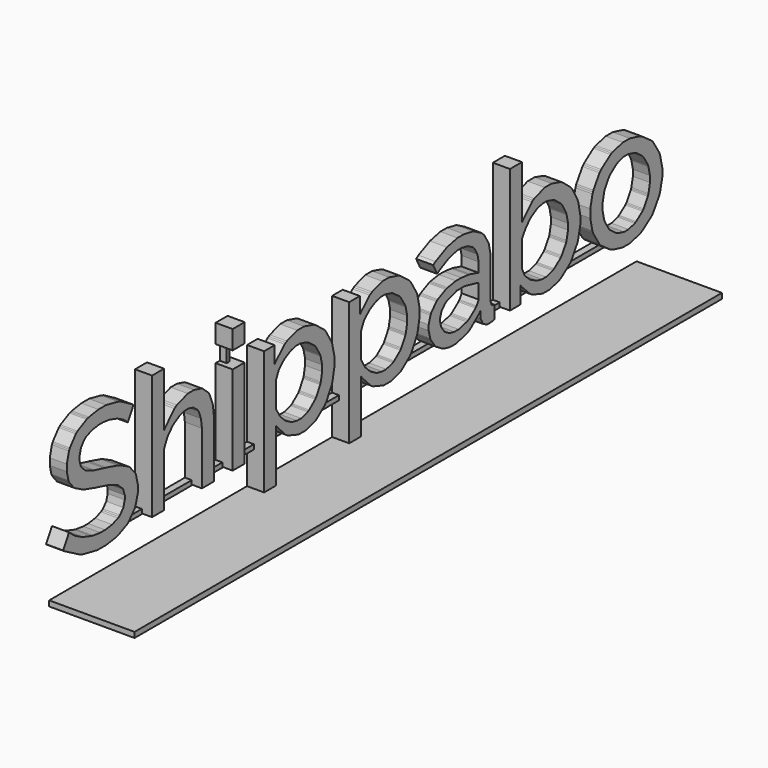
from build123d import *

# Parameters (mm, degrees)
F0_W     = 1.117549
F0_H     = 6.629756
F0_H_2   = 1.397356
F1_DEPTH = 1.27
F2_W     = 46.488545
F2_H     = 0.346791
F2_W_2   = 0.287077
F2_H_2   = 1.555349
F3_DEPTH = 0.508
F4_W     = 54.61267
F4_H     = 0.402273
F5_DEPTH = 6.35


with BuildPart() as f1:
    # F0 (on Right) → F1 (new body)
    with BuildSketch(Plane.YZ):
        Polygon((-21.870822, 3.87162), (-21.844635, 3.841293), (-21.309965, 4.768698), (-21.406409, 4.84726), (-22.496424, 5.472887), (-22.619106, 5.518353), (-22.741763, 5.565191), (-23.857941, 5.796737), (-24.269979, 5.796737), (-24.569014, 5.796737), (-25.466116, 5.654777), (-25.565329, 5.625846), (-25.665938, 5.598287), (-26.521689, 5.169713), (-26.593368, 5.111852), (-26.666393, 5.055337), (-27.227251, 4.356684), (-27.26723, 4.274007), (-27.308556, 4.191305), (-27.508378, 3.416859), (-27.508378, 3.13022), (-27.508378, 2.918003), (-27.360931, 2.279955), (-27.330603, 2.216556), (-27.301673, 2.153209), (-26.862075, 1.614373), (-26.802817, 1.568907), (-26.74493, 1.524813), (-26.02009, 1.143102), (-25.933273, 1.111377), (-25.846456, 1.079703), (-24.84186, 0.783412), (-24.727484, 0.755853), (-24.624132, 0.731063), (-23.698098, 0.481635), (-23.615421, 0.456844), (-23.534091, 0.433426), (-22.851999, 0.152298), (-22.796856, 0.120574), (-22.741763, 0.0889), (-22.324212, -0.285928), (-22.295256, -0.330022), (-22.267697, -0.372745), (-22.122994, -0.810971), (-22.122994, -0.972185), (-22.122994, -1.121029), (-22.256674, -1.570253), (-22.568129, -1.942338), (-22.656317, -2.000225), (-22.745878, -2.056714), (-23.29848, -2.256511), (-23.942015, -2.343328), (-24.155629, -2.343328), (-24.385727, -2.343328), (-25.073381, -2.253767), (-25.151918, -2.235835), (-25.231852, -2.216582), (-25.973227, -1.983689), (-26.040766, -1.95613), (-26.109676, -1.927174), (-26.72428, -1.604721), (-26.778026, -1.568882), (-26.833144, -1.531696), (-27.271345, -1.172007), (-27.304416, -1.136193), (-27.851506, -2.10218), (-27.724735, -2.205533), (-26.310869, -2.993771), (-26.155142, -3.048914), (-26.000812, -3.102635), (-24.675135, -3.372739), (-24.180419, -3.372739), (-23.882756, -3.372739), (-22.985654, -3.250108), (-22.885044, -3.226664), (-22.785857, -3.201873), (-21.923172, -2.820137), (-21.850147, -2.769159), (-21.777122, -2.716784), (-21.201101, -2.059457), (-21.158378, -1.980921), (-21.117027, -1.900987), (-20.90481, -1.137564), (-20.90481, -0.857834), (-20.90481, -0.616661), (-21.079816, 0.102692), (-21.114283, 0.171577), (-21.150097, 0.241859), (-21.657208, 0.834415), (-21.72335, 0.88265), (-21.790889, 0.932231), (-22.594291, 1.338783), (-22.687991, 1.371829), (-22.783063, 1.404925), (-23.835893, 1.695679), (-23.951641, 1.720494), (-24.053622, 1.743913), (-24.932818, 1.967154), (-25.005868, 1.987829), (-25.080265, 2.009877), (-25.699009, 2.257908), (-25.748615, 2.285492), (-25.799618, 2.314423), (-26.164794, 2.658948), (-26.186841, 2.698877), (-26.21026, 2.738857), (-26.327405, 3.156407), (-26.327405, 3.307994), (-26.327405, 3.462325), (-26.20612, 3.921227), (-25.920878, 4.322216), (-25.838201, 4.386986), (-25.756895, 4.453153), (-25.208433, 4.683252), (-24.523548, 4.781118), (-24.294795, 4.781118), (-24.115649, 4.781118), (-23.576813, 4.712233), (-23.513466, 4.698416), (-23.451439, 4.684624), (-22.875418, 4.505503), (-22.821671, 4.483456), (-22.769297, 4.461408), (-22.292488, 4.21198), (-22.249765, 4.184421), (-22.208414, 4.156837), align=None)
        Polygon((-14.947544, -3.283179), (-13.829944, -3.283179), (-13.829944, 0.678688), (-13.829944, 0.932231), (-13.920902, 1.692935), (-13.938834, 1.778381), (-13.956741, 1.863776), (-14.247495, 2.59969), (-14.287475, 2.66032), (-14.328826, 2.722296), (-14.867611, 3.208757), (-14.935149, 3.244596), (-15.004059, 3.280435), (-15.679293, 3.460953), (-15.925952, 3.460953), (-16.266338, 3.460953), (-17.287469, 3.121965), (-17.399076, 3.054401), (-17.512081, 2.986888), (-18.400928, 2.045716), (-18.465698, 1.924431), (-18.465698, 5.988279), (-19.583273, 5.988279), (-19.583273, -3.283179), (-18.465698, -3.283179), (-18.465698, 0.717271), (-18.447791, 0.780644), (-18.166664, 1.363574), (-18.129428, 1.415923), (-18.092242, 1.469695), (-17.669154, 1.924431), (-17.620945, 1.961642), (-17.574082, 2.00025), (-17.060088, 2.302002), (-17.004944, 2.324049), (-16.951223, 2.346096), (-16.510254, 2.457729), (-16.344875, 2.457729), (-16.194684, 2.457729), (-15.741294, 2.332355), (-15.362352, 2.040179), (-15.303094, 1.956156), (-15.24381, 1.873453), (-15.03713, 1.323619), (-14.947544, 0.649732), (-14.947544, 0.42512), align=None)
        with Locations((-11.532082, 0.031699)):
            Rectangle(F0_W, F0_H)
        with Locations((-11.532082, 5.289601)):
            Rectangle(F0_W, F0_H_2)
        Polygon((-5.964149, -3.40995), (-5.600319, -3.40995), (-5.321935, -3.40995), (-4.485513, -3.182569), (-4.39453, -3.137103), (-4.303573, -3.091612), (-3.520872, -2.477008), (-3.45473, -2.399843), (-3.38996, -2.322652), (-2.881452, -1.413154), (-2.844241, -1.30843), (-2.808402, -1.203731), (-2.629256, -0.30386), (-2.629256, 0.031013), (-2.629256, 0.330048), (-2.824937, 1.22301), (-2.863545, 1.326363), (-2.903499, 1.431112), (-3.449218, 2.347468), (-3.518129, 2.426056), (-3.588385, 2.505989), (-4.413834, 3.135732), (-4.508932, 3.181198), (-4.604004, 3.228061), (-5.451475, 3.460953), (-5.765698, 3.460953), (-6.088151, 3.460953), (-7.051396, 3.149524), (-7.156145, 3.086125), (-7.260844, 3.024099), (-8.113852, 2.204187), (-8.178622, 2.102206), (-8.178622, 3.346577), (-9.169451, 3.346577), (-9.169451, -5.988253), (-8.051851, -5.988253), (-8.051851, -1.975434), (-7.991246, -2.078761), (-7.16026, -2.93591), (-7.055536, -3.003423), (-6.950786, -3.070962), align=None)
        Polygon((-5.720232, -2.445334), (-5.943473, -2.445334), (-6.096432, -2.445334), (-6.551168, -2.343328), (-6.603543, -2.324049), (-6.657264, -2.303399), (-7.154774, -2.029155), (-7.201611, -1.994713), (-7.248449, -1.958873), (-7.660513, -1.545463), (-7.696302, -1.4986), (-7.732166, -1.450391), (-8.028407, -0.937768), (-8.051851, -0.882625), (-8.051851, 1.009421), (-8.042199, 1.060399), (-7.814843, 1.541348), (-7.779004, 1.586814), (-7.744536, 1.632306), (-7.331151, 2.02504), (-7.282891, 2.056714), (-7.236054, 2.08981), (-6.728917, 2.355774), (-6.673825, 2.375078), (-6.620053, 2.395753), (-6.202502, 2.49494), (-6.045429, 2.49494), (-5.838723, 2.49494), (-5.218608, 2.330983), (-5.149723, 2.297887), (-5.080813, 2.266188), (-4.482719, 1.821104), (-4.431741, 1.764589), (-4.382135, 1.709445), (-3.979774, 1.053516), (-3.949421, 0.977722), (-3.92049, 0.903326), (-3.771671, 0.268021), (-3.771671, 0.031013), (-3.771671, -0.178435), (-3.899814, -0.808228), (-3.92463, -0.882625), (-3.950792, -0.95565), (-4.315993, -1.617116), (-4.362856, -1.676375), (-4.411066, -1.734261), (-4.981575, -2.200046), (-5.047717, -2.235835), (-5.115255, -2.270303), align=None, mode=Mode.SUBTRACT)
        Polygon((1.947291, -3.40995), (2.311019, -3.40995), (2.589403, -3.40995), (3.427095, -3.182569), (3.518027, -3.137103), (3.609213, -3.091612), (4.391787, -2.477008), (4.458081, -2.399843), (4.522851, -2.322652), (5.031359, -1.413154), (5.067173, -1.30843), (5.102987, -1.203731), (5.283327, -0.30386), (5.283327, 0.031013), (5.283327, 0.330048), (5.086477, 1.22301), (5.047869, 1.326363), (5.007737, 1.431112), (4.463415, 2.347468), (4.394581, 2.426056), (4.324223, 2.505989), (3.498977, 3.135732), (3.403727, 3.181198), (3.307207, 3.228061), (2.459863, 3.460953), (2.145665, 3.460953), (1.823085, 3.460953), (0.859917, 3.149524), (0.755269, 3.086125), (0.650367, 3.024099), (-0.202565, 2.204187), (-0.267335, 2.102206), (-0.267335, 3.346577), (-1.256665, 3.346577), (-1.256665, -5.988253), (-0.139065, -5.988253), (-0.139065, -1.975434), (-0.078613, -2.078761), (0.752475, -2.93591), (0.857123, -3.003423), (0.962025, -3.070962), align=None)
        Polygon((2.191131, -2.445334), (1.967865, -2.445334), (1.814957, -2.445334), (1.360043, -2.343328), (1.307719, -2.324049), (1.254125, -2.303399), (0.756539, -2.029155), (0.711073, -1.994713), (0.664337, -1.958873), (0.252095, -1.545463), (0.216281, -1.4986), (0.179197, -1.450391), (-0.116967, -0.937768), (-0.139065, -0.882625), (-0.139065, 1.009421), (-0.129413, 1.060399), (0.097917, 1.541348), (0.133731, 1.586814), (0.168275, 1.632306), (0.580263, 2.02504), (0.628269, 2.056714), (0.675259, 2.08981), (1.183767, 2.355774), (1.238885, 2.375078), (1.292733, 2.395753), (1.710055, 2.49494), (1.867281, 2.49494), (2.072513, 2.49494), (2.692781, 2.330983), (2.761615, 2.297887), (2.830449, 2.266188), (3.428619, 1.821104), (3.479673, 1.764589), (3.530473, 1.709445), (3.931539, 1.053516), (3.962019, 0.977722), (3.990721, 0.903326), (4.139565, 0.268021), (4.139565, 0.031013), (4.139565, -0.178435), (4.012819, -0.808228), (3.988181, -0.882625), (3.962019, -0.95565), (3.596767, -1.617116), (3.549777, -1.676375), (3.501517, -1.734261), (2.929763, -2.200046), (2.863469, -2.235835), (2.796159, -2.270303), align=None, mode=Mode.SUBTRACT)
        Polygon((8.137525, -3.40995), (8.356473, -3.40995), (8.691245, -3.40995), (9.697085, -3.149498), (9.810369, -3.098521), (9.923145, -3.046146), (10.860151, -2.289607), (10.934573, -2.190369), (10.959719, -2.660294), (10.965053, -2.707157), (11.162157, -3.104032), (11.195431, -3.137103), (11.226673, -3.168802), (11.589385, -3.334156), (11.721719, -3.334156), (11.776837, -3.334156), (11.943715, -3.323133), (11.962765, -3.321761), (11.982069, -3.318993), (12.224639, -3.287293), (12.254865, -3.283179), (12.254865, -2.318537), (12.195937, -2.315794), (11.987657, -2.209673), (11.899519, -1.986432), (11.899519, -1.912036), (11.899519, 0.793064), (11.899519, 1.075563), (11.716131, 1.921688), (11.290173, 2.646528), (11.169015, 2.762275), (11.046587, 2.879446), (10.293985, 3.287319), (9.421495, 3.460953), (9.130919, 3.460953), (8.807069, 3.460953), (7.838313, 3.245968), (6.766179, 2.7416), (6.552565, 2.596921), (6.921881, 1.873453), (7.105269, 2.002993), (8.000873, 2.454961), (8.772525, 2.647899), (9.030335, 2.647899), (9.214739, 2.647899), (9.771507, 2.532151), (10.248519, 2.262073), (10.325735, 2.183511), (10.401681, 2.10632), (10.667365, 1.633677), (10.781919, 1.08933), (10.781919, 0.90744), (10.781919, 0.374142), (10.718419, 0.400329), (9.988169, 0.601523), (9.905365, 0.615315), (9.822815, 0.630479), (9.172067, 0.704875), (8.928481, 0.704875), (8.668131, 0.704875), (7.889113, 0.578079), (7.803769, 0.551917), (7.716901, 0.527101), (6.976999, 0.17846), (6.915023, 0.132994), (6.851523, 0.0889), (6.370701, -0.444398), (6.337681, -0.507797), (6.303137, -0.569824), (6.133719, -1.132027), (6.133719, -1.340129), (6.133719, -1.528902), (6.276975, -2.095297), (6.305931, -2.158695), (6.333363, -2.220722), (6.724777, -2.766416), (6.775831, -2.813253), (6.825361, -2.858745), (7.412609, -3.22392), (7.479919, -3.251479), (7.547737, -3.277667), align=None)
        Polygon((8.925687, -2.572106), (8.648573, -2.572106), (8.516493, -2.572106), (8.121015, -2.48666), (8.076819, -2.470125), (8.031353, -2.452192), (7.645273, -2.219325), (7.613523, -2.190369), (7.580503, -2.160067), (7.327265, -1.811426), (7.309231, -1.771447), (7.291197, -1.731518), (7.200265, -1.380109), (7.200265, -1.250569), (7.200265, -1.121029), (7.331075, -0.733781), (7.639685, -0.383769), (7.727823, -0.324536), (7.814945, -0.265252), (8.751951, 0.031013), (9.093835, 0.031013), (9.480931, 0.031013), (10.645267, -0.232207), (10.781919, -0.285928), (10.781919, -1.264336), (10.781919, -1.377366), (10.580497, -1.717726), (10.540619, -1.759052), (10.495153, -1.819707), (9.844659, -2.313026), (9.759315, -2.350262), (9.673717, -2.386051), align=None, mode=Mode.SUBTRACT)
        Polygon((16.741775, -3.40995), (17.094581, -3.40995), (17.379823, -3.40995), (18.235803, -3.182569), (18.332069, -3.137103), (18.428335, -3.091612), (19.259423, -2.477008), (19.329781, -2.399843), (19.398615, -2.322652), (19.948525, -1.418666), (19.989673, -1.315339), (20.030059, -1.210589), (20.230973, -0.323164), (20.230973, 0.006198), (20.230973, 0.302489), (20.055967, 1.189939), (20.021423, 1.294689), (19.985863, 1.399388), (19.488023, 2.321306), (19.425031, 2.399868), (19.360007, 2.479777), (18.581497, 3.120568), (18.490565, 3.168828), (18.399379, 3.218409), (17.565751, 3.460953), (17.258665, 3.460953), (16.927957, 3.460953), (15.937103, 3.132988), (15.836519, 3.066821), (15.734665, 3.002051), (14.877415, 2.133905), (14.808581, 2.02504), (14.808581, 5.988279), (13.690981, 5.988279), (13.690981, -3.283179), (14.681581, -3.283179), (14.681581, -2.038807), (14.742287, -2.139391), (15.578709, -2.96484), (15.684881, -3.02961), (15.789529, -3.093009), align=None)
        Polygon((17.042257, -2.445334), (16.814673, -2.445334), (16.670147, -2.445334), (16.240125, -2.348865), (16.186531, -2.330958), (16.131413, -2.311654), (15.622651, -2.051202), (15.576169, -2.019529), (15.527909, -1.986432), (15.115667, -1.600606), (15.081123, -1.556512), (15.045563, -1.511021), (14.817979, -1.024585), (14.808581, -0.972185), (14.808581, 0.946048), (14.833219, 0.999769), (15.133701, 1.497254), (15.169515, 1.54272), (15.204059, 1.589583), (15.607665, 1.997481), (15.653131, 2.031924), (15.698597, 2.067763), (16.189325, 2.347468), (16.242919, 2.368144), (16.295497, 2.390191), (16.747363, 2.49494), (16.916781, 2.49494), (17.119473, 2.49494), (17.731359, 2.321306), (17.798669, 2.285492), (17.864963, 2.251024), (18.436717, 1.790751), (18.485231, 1.732915), (18.531713, 1.6764), (18.902553, 1.014933), (18.928715, 0.939165), (18.955131, 0.864718), (19.088735, 0.240487), (19.088735, 0.006198), (19.088735, -0.204622), (18.950813, -0.841273), (18.923381, -0.914349), (18.895695, -0.987374), (18.502757, -1.637792), (18.453481, -1.695679), (18.402173, -1.752194), (17.797145, -2.206904), (17.728565, -2.241372), (17.658207, -2.274443), align=None, mode=Mode.SUBTRACT)
        Polygon((24.157051, -3.40995), (24.498935, -3.40995), (24.812879, -3.40995), (25.759791, -3.177057), (25.863169, -3.13022), (25.965023, -3.083357), (26.849959, -2.459126), (26.924381, -2.381936), (26.997279, -2.303399), (27.569287, -1.392504), (27.610435, -1.289177), (27.650313, -1.184427), (27.851481, -0.307975), (27.851481, 0.018618), (27.851481, 0.323164), (27.644725, 1.236802), (27.603323, 1.340155), (27.562175, 1.444854), (26.990167, 2.354402), (26.917269, 2.431542), (26.844117, 2.510104), (25.960959, 3.135732), (25.857581, 3.181198), (25.752679, 3.228061), (24.837517, 3.460953), (24.498935, 3.460953), (24.186007, 3.460953), (23.247731, 3.228061), (23.145623, 3.181198), (23.042245, 3.135732), (22.164167, 2.510104), (22.091269, 2.431542), (22.018117, 2.354402), (21.446363, 1.444854), (21.406485, 1.340155), (21.365337, 1.236802), (21.158581, 0.349352), (21.158581, 0.018618), (21.158581, -0.281813), (21.358225, -1.184427), (21.399373, -1.289177), (21.439759, -1.392504), (22.005925, -2.303399), (22.078823, -2.381936), (22.151975, -2.459126), (23.029545, -3.083357), (23.132923, -3.13022), (23.235031, -3.177057), align=None)
        Polygon((22.300819, -0.23495), (22.300819, 0.006198), (22.300819, 0.23081), (22.444075, 0.903326), (22.473031, 0.977722), (22.500463, 1.053516), (22.892131, 1.709445), (22.942931, 1.764589), (22.992715, 1.821104), (23.573867, 2.266188), (23.641685, 2.297887), (23.707725, 2.330983), (24.283797, 2.49494), (24.498935, 2.49494), (24.695785, 2.49494), (25.288367, 2.33647), (25.355931, 2.304771), (25.422225, 2.273071), (26.009219, 1.834871), (26.060019, 1.778381), (26.111073, 1.723238), (26.508075, 1.065911), (26.537031, 0.990143), (26.564463, 0.915695), (26.707719, 0.270789), (26.707719, 0.031013), (26.707719, -0.192227), (26.564463, -0.864692), (26.537031, -0.940511), (26.508075, -1.014908), (26.111073, -1.670863), (26.060019, -1.727352), (26.009219, -1.782496), (25.422225, -2.222094), (25.355931, -2.255139), (25.288367, -2.286864), (24.712295, -2.445334), (24.498935, -2.445334), (24.300307, -2.445334), (23.707725, -2.286864), (23.641685, -2.255139), (23.573867, -2.222094), (22.992715, -1.787982), (22.942931, -1.734261), (22.892131, -1.679118), (22.500463, -1.03284), (22.473031, -0.958444), (22.444075, -0.883996), align=None, mode=Mode.SUBTRACT)
    extrude(amount=F1_DEPTH)


with BuildPart() as f3:
    # F2 (on Right) → F3 (new body)
    with BuildSketch(Plane.YZ):
        with Locations((0.089222, -3.162495)):
            Rectangle(F2_W, F2_H)
        with Locations((-11.556888, 3.92952)):
            Rectangle(F2_W_2, F2_H_2)
    extrude(amount=F3_DEPTH)


with BuildPart() as f5:
    # F4 (on Right) → F5 (new body)
    with BuildSketch(Plane.YZ):
        with Locations((-0.258637, -6.098755)):
            Rectangle(F4_W, F4_H)
    extrude(amount=F5_DEPTH)


solid = Compound([f1.part, f3.part, f5.part])
